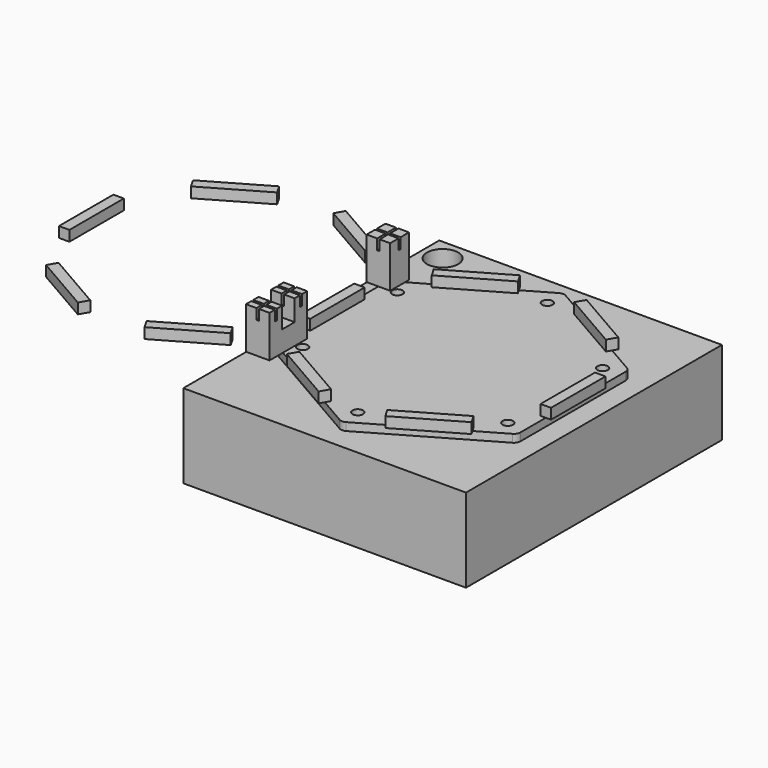
from build123d import *

# Parameters (mm, degrees)
F1_DEPTH  = 2.38125
F2_R      = 1.5875
F3_DEPTH  = 2.38225
F4_R      = 2
F5_W      = 85.725
F5_H      = 97.0220068151
F6_DEPTH  = 25.4
F7_R      = 3.175
F7_R_2    = 1.5875
F8_DEPTH  = 3.81
F9_R      = 1.1303
F10_DEPTH = 19.685
F11_R     = 4.7625
F12_DEPTH = 9.525
F13_W     = 3.175
F13_H     = 20.6375
F14_DEPTH = 3.175
F15_W     = 7.14375
F15_H     = 7.14375
F16_DEPTH = 12.7
F15_H_2   = 14.2875
F17_W     = 4.7625
F17_H     = 6.35
F18_DEPTH = 7.14375
F19_W     = 0.762
F19_H     = 3.190875
F19_H_2   = 0.762
F19_W_2   = 3.190875
F19_H_3   = 2.00025
F19_H_4   = 8.763
F20_DEPTH = 3.175


with BuildPart() as f1:
    # F0 (on Top) → F1 (new body)
    with BuildSketch(Plane.XY):
        Polygon((0, 42.1610034076), (-36.5125, 21.0805017038), (-36.5125, -21.0805017038), (0, -42.1610034076), (36.5125, -21.0805017038), (36.5125, 21.0805017038), align=None)
    extrude(amount=F1_DEPTH)

    # F2 (on face) → F3 (cut, through all)
    with BuildSketch(Plane.XY.offset(2.38125)):
        with Locations((-31.115, 17.9642536258)):
            Circle(F2_R)
        with Locations((0, 35.9285072517)):
            Circle(F2_R)
        with Locations((31.115, 17.9642536258)):
            Circle(F2_R)
        with Locations((31.115, -17.9642536258)):
            Circle(F2_R)
        with Locations((0, -35.9285072517)):
            Circle(F2_R)
        with Locations((-31.115, -17.9642536258)):
            Circle(F2_R)
    extrude(amount=-F3_DEPTH, mode=Mode.SUBTRACT)

    # F4
    f4_edges = [f1.edges().sort_by_distance(p)[0] for p in [
        (0, -42.161003, 1.190625),
        (36.5125, -21.080502, 1.190625),
        (-36.5125, -21.080502, 1.190625),
        (-36.5125, 21.080502, 1.190625),
        (0, 42.161003, 1.190625),
        (36.5125, 21.080502, 1.190625),
    ]]
    fillet(f4_edges, radius=F4_R)


with BuildPart() as f6:
    # F5 (on face) → F6 (new body)
    with BuildSketch(Plane.XY):
        Rectangle(F5_W, F5_H)
    extrude(amount=-F6_DEPTH)

    # F7 (on face) → F8 (cut)
    with BuildSketch(Plane.XY):
        Circle(F7_R)
        with Locations((0, -35.9285072517)):
            Circle(F7_R_2)
        with Locations((31.115, -17.9642536258)):
            Circle(F7_R_2)
        with Locations((-31.115, -17.9642536258)):
            Circle(F7_R_2)
        with Locations((-31.115, 17.9642536258)):
            Circle(F7_R_2)
        with Locations((0, 35.9285072517)):
            Circle(F7_R_2)
        with Locations((31.115, 17.9642536258)):
            Circle(F7_R_2)
    extrude(amount=-F8_DEPTH, mode=Mode.SUBTRACT)

    # F9 (on face) → F10 (cut)
    with BuildSketch(Plane.XY):
        with Locations((0, -35.9285072517)):
            Circle(F9_R)
        with Locations((31.115, -17.9642536258)):
            Circle(F9_R)
        with Locations((31.115, 17.9642536258)):
            Circle(F9_R)
        with Locations((0, 35.9285072517)):
            Circle(F9_R)
        with Locations((-31.115, 17.9642536258)):
            Circle(F9_R)
        with Locations((-31.115, -17.9642536258)):
            Circle(F9_R)
    extrude(amount=-F10_DEPTH, mode=Mode.SUBTRACT)

    # F11 (on face) → F12 (cut)
    with BuildSketch(Plane.XY):
        with Locations((-36.5125, 41.8516023308)):
            Circle(F11_R)
    extrude(amount=-F12_DEPTH, mode=Mode.SUBTRACT)


with BuildPart() as f14:
    # F13 (on face) → F14 (new body)
    with BuildSketch(Plane.XY.offset(2.38125)):
        with Locations((-36.5125, 0)):
            Rectangle(F13_W, F13_H)
    extrude(amount=F14_DEPTH)


with BuildPart() as f14b:
    # F13 (on face) → F14, piece 2 (new body)
    with BuildSketch(Plane.XY.offset(2.38125)):
        Polygon((-26.3987996353, -25.0865622272), (-27.9862996353, -27.8361928842), (-10.1137003647, -38.1549428842), (-8.5262003647, -35.4053122272), align=None)
    extrude(amount=F14_DEPTH)


with BuildPart() as f14c:
    # F13 (on face) → F14, piece 3 (new body)
    with BuildSketch(Plane.XY.offset(2.38125)):
        Polygon((8.5262003647, -35.4053122272), (10.1137003647, -38.1549428842), (27.9862996353, -27.8361928842), (26.3987996353, -25.0865622272), align=None)
    extrude(amount=F14_DEPTH)


with BuildPart() as f14d:
    # F13 (on face) → F14, piece 4 (new body)
    with BuildSketch(Plane.XY.offset(2.38125)):
        with Locations((36.5125, 0)):
            Rectangle(F13_W, F13_H)
    extrude(amount=F14_DEPTH)


with BuildPart() as f14e:
    # F13 (on face) → F14, piece 5 (new body)
    with BuildSketch(Plane.XY.offset(2.38125)):
        Polygon((26.3987996353, 25.0865622272), (27.9862996353, 27.8361928842), (10.1137003647, 38.1549428842), (8.5262003647, 35.4053122272), align=None)
    extrude(amount=F14_DEPTH)


with BuildPart() as f14f:
    # F13 (on face) → F14, piece 6 (new body)
    with BuildSketch(Plane.XY.offset(2.38125)):
        Polygon((-8.5262003647, 35.4053122272), (-10.1137003647, 38.1549428842), (-27.9862996353, 27.8361928842), (-26.3987996353, 25.0865622272), align=None)
    extrude(amount=F14_DEPTH)


with BuildPart() as f14g:
    # F13 (on face) → F14, piece 7 (new body)
    with BuildSketch(Plane.XY.offset(2.38125)):
        Polygon((-83.1387003647, -38.1549428842), (-81.5512003647, -35.4053122272), (-99.4237996353, -25.0865622272), (-101.0112996353, -27.8361928842), align=None)
    extrude(amount=F14_DEPTH)


with BuildPart() as f14h:
    # F13 (on face) → F14, piece 8 (new body)
    with BuildSketch(Plane.XY.offset(2.38125)):
        Polygon((-62.9112996353, 38.1549428842), (-64.4987996353, 35.4053122272), (-46.6262003647, 25.0865622272), (-45.0387003647, 27.8361928842), align=None)
    extrude(amount=F14_DEPTH)


with BuildPart() as f14i:
    # F13 (on face) → F14, piece 9 (new body)
    with BuildSketch(Plane.XY.offset(2.38125)):
        Polygon((-46.6262003647, -25.0865622272), (-64.4987996353, -35.4053122272), (-62.9112996353, -38.1549428842), (-45.0387003647, -27.8361928842), align=None)
    extrude(amount=F14_DEPTH)


with BuildPart() as f14j:
    # F13 (on face) → F14, piece 10 (new body)
    with BuildSketch(Plane.XY.offset(2.38125)):
        Polygon((-99.4237996353, 25.0865622272), (-81.5512003647, 35.4053122272), (-83.1387003647, 38.1549428842), (-101.0112996353, 27.8361928842), align=None)
    extrude(amount=F14_DEPTH)


with BuildPart() as f14k:
    # F13 (on face) → F14, piece 11 (new body)
    with BuildSketch(Plane.XY.offset(2.38125)):
        with Locations((-109.5375, 0)):
            Rectangle(F13_W, F13_H)
    extrude(amount=F14_DEPTH)


with BuildPart() as f16:
    # F15 (on face) → F16 (new body)
    with BuildSketch(Plane.XY.offset(2.38125)):
        with Locations((-36.5125, 21.0805017038)):
            Rectangle(F15_W, F15_H)
    extrude(amount=F16_DEPTH)


with BuildPart() as f16b:
    # F15 (on face) → F16, piece 2 (new body)
    with BuildSketch(Plane.XY.offset(2.38125)):
        with Locations((-36.5125, -21.0805017038)):
            Rectangle(F15_W, F15_H_2)
    extrude(amount=F16_DEPTH)

    # F17 (on face) → F18 (cut, through all)
    with BuildSketch(Plane(origin=(-40.084375, 0, 0), x_dir=(0, -1, 0), z_dir=(-1, 0, 0))):
        with Locations((21.0805017038, 11.90625)):
            Rectangle(F17_W, F17_H)
    extrude(amount=-F18_DEPTH, mode=Mode.SUBTRACT)


with BuildPart() as f20_tool:
    # F19 (on face) → F20 (new body)
    with BuildSketch(Plane.XY.offset(15.08125)):
        with Locations((-36.5125, 23.0569392038)):
            Rectangle(F19_W, F19_H)
        with Locations((-36.5125, 21.0805017038)):
            Rectangle(F19_W, F19_H_2)
        with Locations((-38.4889375, 21.0805017038)):
            Rectangle(F19_W_2, F19_H_2)
        with Locations((-34.5360625, 21.0805017038)):
            Rectangle(F19_W_2, F19_H_2)
        with Locations((-36.5125, 19.1040642038)):
            Rectangle(F19_W, F19_H)
        with Locations((-36.5125, -14.9368767038)):
            Rectangle(F19_W, F19_H_3)
        with Locations((-36.5125, -16.3180017038)):
            Rectangle(F19_W, F19_H_2)
        with Locations((-38.4889375, -16.3180017038)):
            Rectangle(F19_W_2, F19_H_2)
        with Locations((-34.5360625, -16.3180017038)):
            Rectangle(F19_W_2, F19_H_2)
        with Locations((-36.5125, -21.0805017038)):
            Rectangle(F19_W, F19_H_4)
        with Locations((-36.5125, -25.8430017038)):
            Rectangle(F19_W, F19_H_2)
        with Locations((-38.4889375, -25.8430017038)):
            Rectangle(F19_W_2, F19_H_2)
        with Locations((-34.5360625, -25.8430017038)):
            Rectangle(F19_W_2, F19_H_2)
        with Locations((-36.5125, -27.2241267038)):
            Rectangle(F19_W, F19_H_3)
    extrude(amount=-F20_DEPTH)


with BuildPart() as f16_1:
    add(f16.part)

    # F20: cut by f20_tool
    add(f20_tool.part, mode=Mode.SUBTRACT)


with BuildPart() as f16b_1:
    add(f16b.part)

    # F20: cut by f20_tool
    add(f20_tool.part, mode=Mode.SUBTRACT)


solid = Compound([f1.part, f6.part, f14.part, f14b.part, f14c.part, f14d.part, f14e.part, f14f.part, f14g.part, f14h.part, f14i.part, f14j.part, f14k.part, f16_1.part, f16b_1.part])
